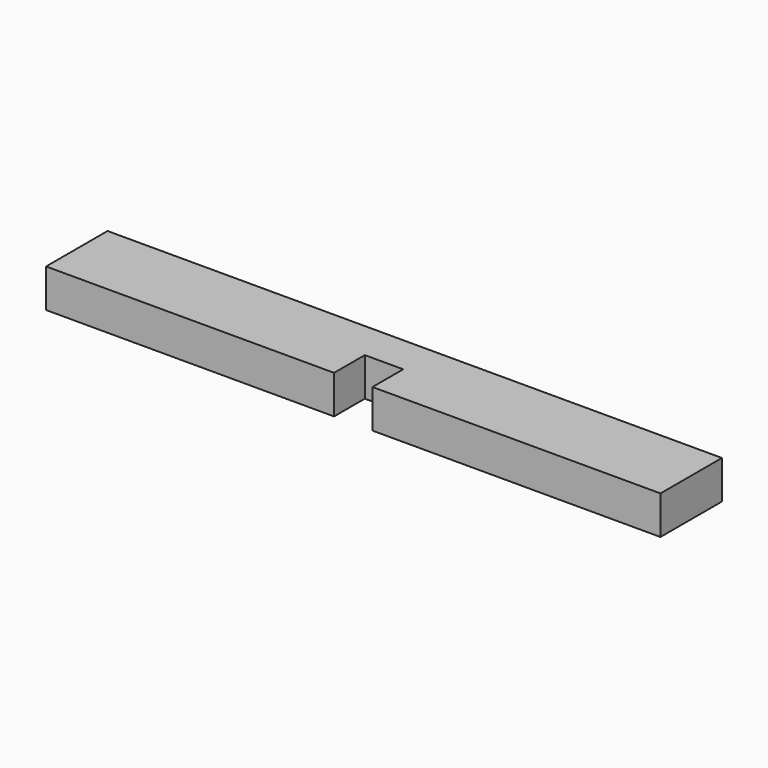
from build123d import *

# Parameters (mm, degrees)
F0_W     = 203.2
F0_H     = 25.4
F1_DEPTH = 6.35
F2_W     = 12.7
F2_H     = 25.4
F3_DEPTH = 12.701


with BuildPart() as f1:
    # F0 (on Top) → F1 (new body, symmetric)
    with BuildSketch(Plane.XY):
        Rectangle(F0_W, F0_H)
    extrude(amount=F1_DEPTH, both=True)

    # F2 (on face) → F3 (cut, through all)
    with BuildSketch(Plane.XY.offset(6.35)):
        with Locations((0, -12.7)):
            Rectangle(F2_W, F2_H)
    extrude(amount=-F3_DEPTH, mode=Mode.SUBTRACT)


solid = f1.part
